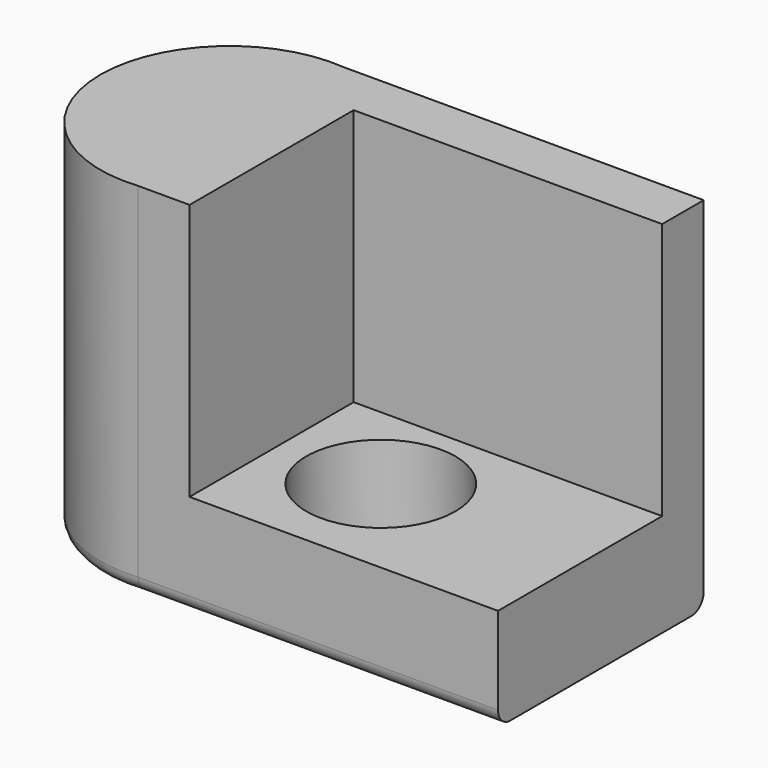
from build123d import *

# Parameters (mm, degrees)
PAD_DEPTH       = 7
SKETCH001_W     = 9
SKETCH001_H     = 4.46
POCKET_DEPTH    = 5
FILLET_R        = 0.3
SKETCH002_R     = 1.45
POCKET001_DEPTH = 3


with BuildPart() as part:
    # Sketch → Pad (new body)
    with BuildSketch(Plane.XY):
        with BuildLine():
            Line((-3.5, -2.5), (3.5, -2.5))
            Line((3.5, -2.5), (3.5, 2.5))
            Line((3.5, 2.5), (-3.5, 2.5))
            ThreePointArc((-3.5, 2.5), (-6.23383, 0), (-3.5, -2.5))
        make_face()
    extrude(amount=PAD_DEPTH)

    # Sketch001 (on DatumPlane) → Pocket (cut)
    with BuildSketch(Plane.XY.offset(7)):
        with Locations((2, -0.74)):
            Rectangle(SKETCH001_W, SKETCH001_H)
    extrude(amount=-POCKET_DEPTH, mode=Mode.SUBTRACT)

    # Fillet
    fillet_edges = [part.edges().sort_by_distance(p)[0] for p in [
        (0, -2.5, 0),
    ]]
    fillet(fillet_edges, radius=FILLET_R)

    # Sketch002 (on DatumPlane) → Pocket001 (cut)
    with BuildSketch(Plane.XY.offset(2)):
        with Locations((-0.5, -0.35)):
            Circle(SKETCH002_R)
    extrude(amount=-POCKET001_DEPTH, mode=Mode.SUBTRACT)


solid = part.part
